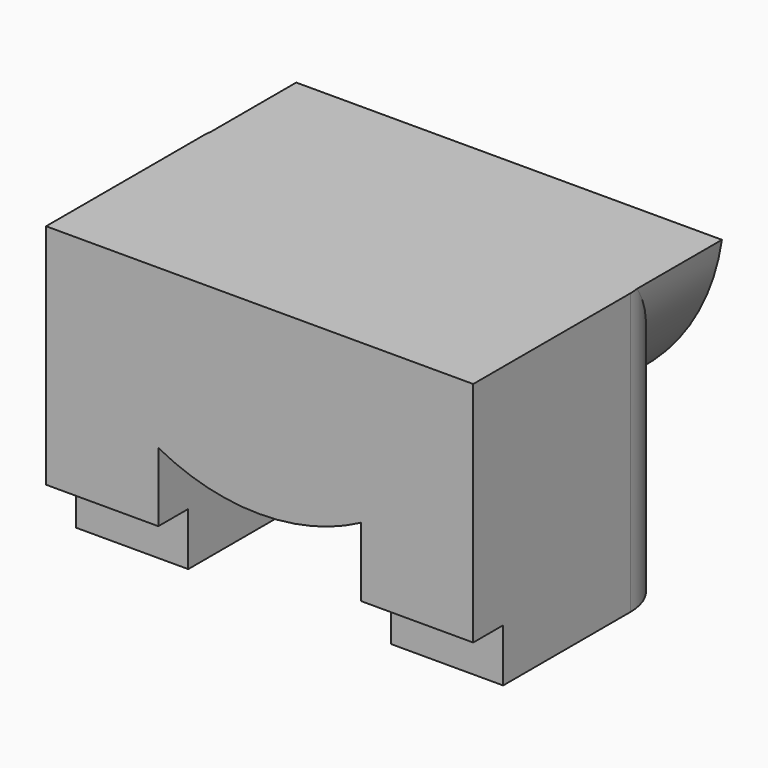
from build123d import *

# Parameters (mm, degrees)
PAD_DEPTH       = 10
POCKET_DEPTH    = 9
POCKET001_DEPTH = 1.2
SKETCH009_W     = 13.7
SKETCH009_H     = 10
PAD001_DEPTH    = 10


with BuildPart() as obj1:
    # Sketch → Pad (new body)
    with BuildSketch(Plane.XZ):
        with BuildLine():
            ThreePointArc((-6.827152, 0), (0, -5.9), (6.827152, 0))
            Line((8, 0), (6.827152, 0))
            Line((8, -10), (8, 0))
            Line((-8, -10), (8, -10))
            Line((-8, 0), (-8, -10))
            Line((-6.827152, 0), (-8, 0))
        make_face()
    extrude(amount=PAD_DEPTH)

    # Sketch007 → Pocket (cut)
    with BuildSketch(Plane.XY):
        with BuildLine():
            Line((-6.85, -3.7), (-6.85, -8.8))
            Line((-6.85, -8.8), (-3.25, -8.8))
            Line((-3.25, -8.8), (-3.25, -3.7))
            ThreePointArc((-3.25, -3.7), (-5.05, -1.9), (-6.85, -3.7))
        make_face()
        with BuildLine():
            Line((3.25, -3.7), (3.25, -8.8))
            Line((3.25, -8.8), (6.85, -8.8))
            Line((6.85, -8.8), (6.85, -3.7))
            ThreePointArc((6.85, -3.7), (5.05, -1.9), (3.25, -3.7))
        make_face()
    extrude(amount=-POCKET_DEPTH, mode=Mode.SUBTRACT)

    # Sketch008 (on Face7 of Pocket) → Pocket001 (cut)
    with BuildSketch(Plane.XZ.offset(10)):
        Polygon((-6.85, 0), (-6.85, -7.3), (-3.25, -7.3), (-3.25, -2), (3.25, -2), (3.25, -7.3), (6.85, -7.3), (6.85, 0), align=None)
    extrude(amount=-POCKET001_DEPTH, mode=Mode.SUBTRACT)


with BuildPart() as body001:
    # Sketch009 (on ShapeBinder) → Pad001 (new body)
    with BuildSketch(Plane.XZ.offset(10)):
        with Locations((0, -5)):
            Rectangle(SKETCH009_W, SKETCH009_H)
    extrude(amount=-PAD001_DEPTH)

    # Boolean: cut obj1
    add(obj1.part, mode=Mode.SUBTRACT)


solid = body001.part
